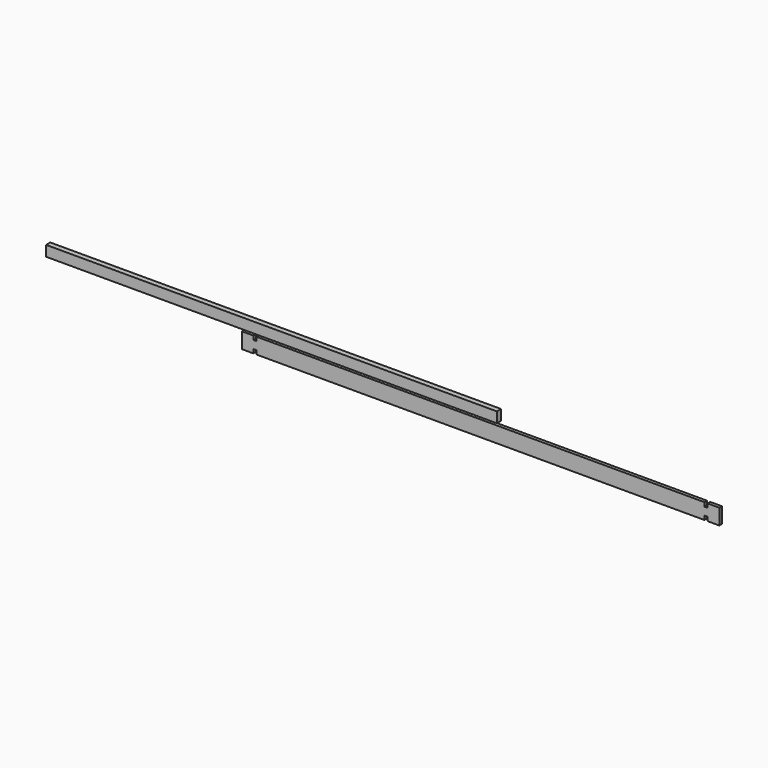
from build123d import *

# Parameters (mm, degrees)
F1_DEPTH = 28
F2_W     = 3870
F2_H     = 90
F3_DEPTH = 45


with BuildPart() as f1:
    # F0 (on Front) → F1 (new body)
    with BuildSketch(Plane.XZ):
        Polygon((1922, 33.75), (1922, 67.5), (-1922, 67.5), (-1922, 33.75), (-1950, 33.75), (-1950, 67.5), (-2050, 67.5), (-2050, -67.5), (-1950, -67.5), (-1950, -33.75), (-1922, -33.75), (-1922, -67.5), (1922, -67.5), (1922.001252, -33.75), (1950.001252, -33.75), (1950.001252, -67.249558), (2050, -67.75), (2050, 67.25), (1950, 67.25), (1950, 33.75), align=None)
    extrude(amount=F1_DEPTH)


with BuildPart() as f3:
    # F2 (on Front) → F3 (new body)
    with BuildSketch(Plane.XZ):
        with Locations((-1781.6658, 140.519178)):
            Rectangle(F2_W, F2_H)
    extrude(amount=F3_DEPTH)


solid = Compound([f1.part, f3.part])
